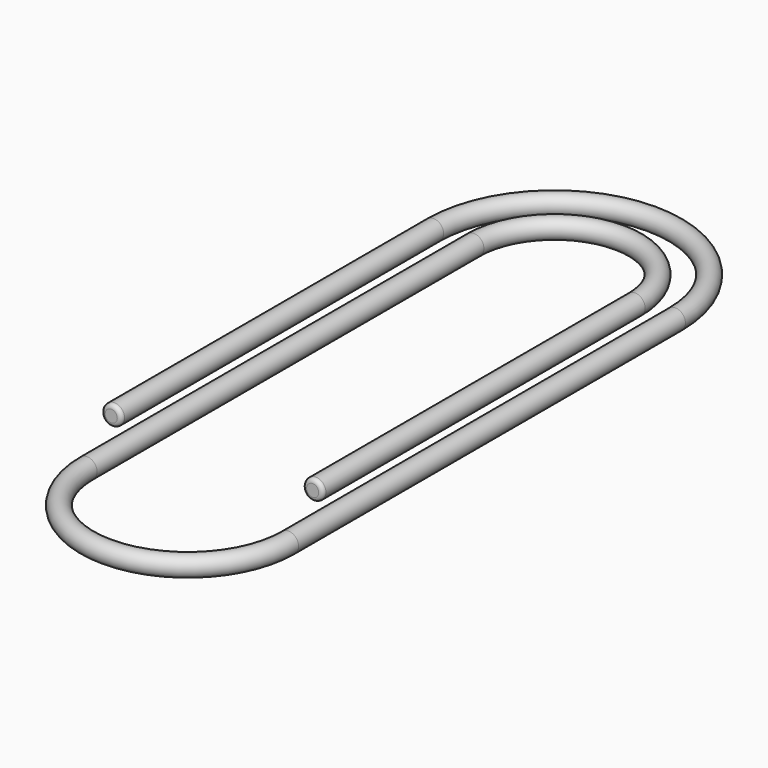
from build123d import *

# Parameters (mm, degrees)
F1_R = 0.25
F3_R = 0.1


with BuildPart() as f2:
    # F2: sweep along a path in F0
    with BuildLine(Plane.XY) as f2_path:
        Line((-3, 0), (-3, 10))
        ThreePointArc((-3, 10), (0, 13), (3, 10))
        Line((3, 10), (3, -2))
        ThreePointArc((3, -2), (0.5, -4.5), (-2, -2))
        Line((-2, -2), (-2, 10))
        ThreePointArc((-2, 10), (0, 12), (2, 10))
        Line((2, 10), (2, 0))
    # F1 (on Front) → F2 (sweep)
    with BuildSketch(Plane.XZ):
        with Locations((-3, 0)):
            Circle(F1_R)
    sweep(path=f2_path.line)

    # F3
    f3_edges = [f2.edges().sort_by_distance(p)[0] for p in [
        (2.25, 0, 0),
        (-3.25, 0, 0),
    ]]
    fillet(f3_edges, radius=F3_R)


solid = f2.part
